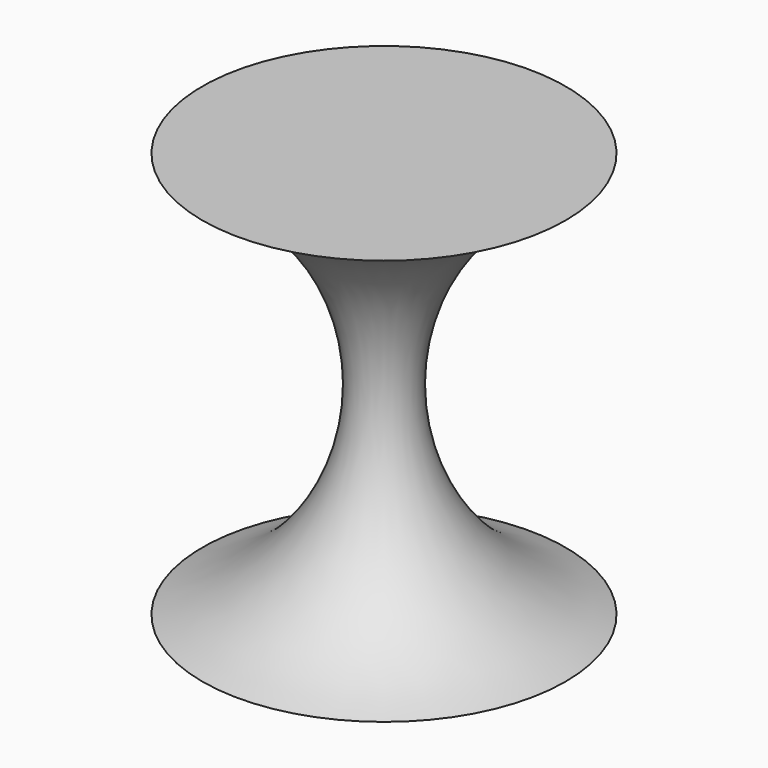
from build123d import *


with BuildPart() as part:
    # Sketch002 → Revolution (revolve)
    with BuildSketch(Plane.XZ):
        with BuildLine():
            ThreePointArc((85, 190), (15, 95), (85, 0))
            Line((0, 0), (85, 0))
            Line((0, 190), (0, 0))
            Line((85, 190), (0, 190))
        make_face()
    revolve(axis=Axis((0, 0, 0), (0, 0, 1)))


solid = part.part
